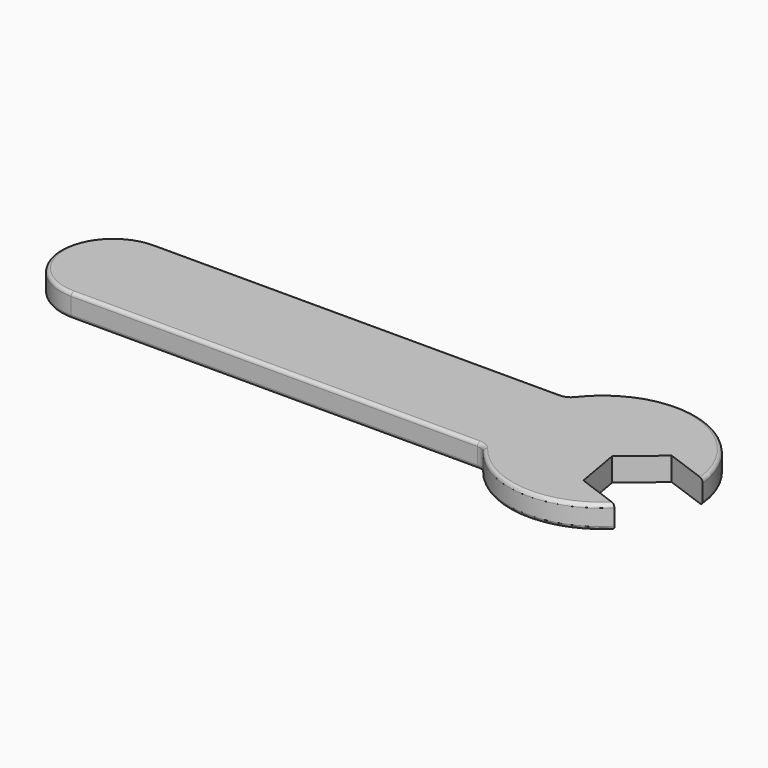
from build123d import *

# Parameters (mm, degrees)
F1_DEPTH = 10
F2_R     = 5
F3_R     = 1.5


with BuildPart() as f1:
    # F0 (on Top) → F1 (new body)
    with BuildSketch(Plane.XY):
        with BuildLine():
            Line((86.928109, 22.5), (-90, 22.5))
            ThreePointArc((-90, 22.5), (-112.5, 0), (-90, -22.5))
            Line((-90, -22.5), (86.879614, -22.5))
            ThreePointArc((86.879614, -22.5), (116.008795, -39.840686), (147.998941, -28.622881))
            Line((147.998941, -28.622881), (129.205089, -21.782478))
            Line((129.205089, -21.782478), (125.732125, -2.086323))
            Line((125.732125, -2.086323), (141.053014, 10.769429))
            Line((141.053014, 10.769429), (159.805062, 3.944242))
            ThreePointArc((159.805062, 3.944242), (129.869799, 38.763218), (86.928109, 22.5))
        make_face()
    extrude(amount=F1_DEPTH)

    # F2
    f2_edges = [f1.edges().sort_by_distance(p)[0] for p in [
        (86.928109, 22.5, 5),
        (86.879614, -22.5, 5),
    ]]
    fillet(f2_edges, radius=F2_R)

    # F3
    f3_edges = [f1.edges().sort_by_distance(p)[0] for p in [
        (-2.809759, 22.5, 10),
        (-2.835085, -22.5, 0),
    ]]
    fillet(f3_edges, radius=F3_R)


solid = f1.part
